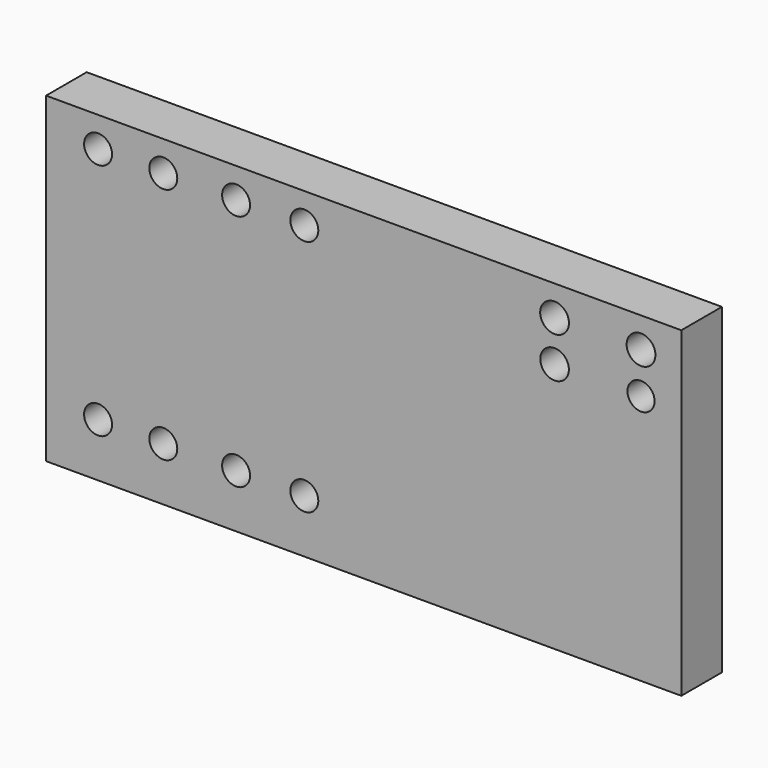
from build123d import *

# Parameters (mm, degrees)
F0_R     = 3.302051
F0_R_2   = 3.302054
F0_R_3   = 3.378854
F0_R_4   = 3.203462
F0_R_5   = 3.397783
F1_DEPTH = 11.9888


with BuildPart() as f1:
    # F0 (on Front) → F1 (new body)
    with BuildSketch(Plane.XZ):
        Polygon((92.889122, 39.310039), (-57.123278, 39.310039), (-57.123278, -31.973779), (-57.123278, -36.686761), (92.889122, -36.686761), align=None)
        with Locations((-44.845879, -24.050448)):
            Circle(F0_R, mode=Mode.SUBTRACT)
        with Locations((-29.44508, -24.050448)):
            Circle(F0_R, mode=Mode.SUBTRACT)
        with Locations((-12.253493, -24.050448)):
            Circle(F0_R, mode=Mode.SUBTRACT)
        with Locations((3.86362, -24.050448)):
            Circle(F0_R, mode=Mode.SUBTRACT)
        with Locations((-44.845879, 32.180369)):
            Circle(F0_R, mode=Mode.SUBTRACT)
        with Locations((-29.44508, 32.180369)):
            Circle(F0_R_2, mode=Mode.SUBTRACT)
        with Locations((-12.253493, 32.180369)):
            Circle(F0_R, mode=Mode.SUBTRACT)
        with Locations((3.86362, 32.180369)):
            Circle(F0_R, mode=Mode.SUBTRACT)
        with Locations((62.959701, 22.5101)):
            Circle(F0_R_3, mode=Mode.SUBTRACT)
        with Locations((83.374709, 22.5101)):
            Circle(F0_R_4, mode=Mode.SUBTRACT)
        with Locations((62.959701, 32.180369)):
            Circle(F0_R_5, mode=Mode.SUBTRACT)
        with Locations((83.374709, 32.180369)):
            Circle(F0_R_5, mode=Mode.SUBTRACT)
    extrude(amount=F1_DEPTH)


solid = f1.part
